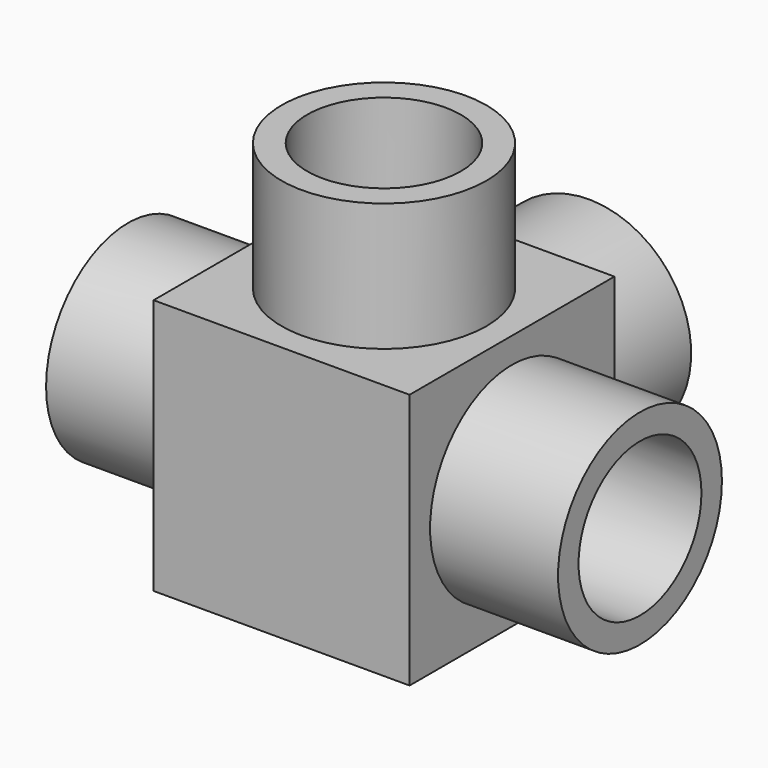
from build123d import *

# Parameters (mm, degrees)
F0_W     = 25.4
F0_H     = 25.4
F1_DEPTH = 25.4
F3_R     = 10.16
F3_R_2   = 7.62
F4_DEPTH = 12.7
F5_R     = 10.16
F5_R_2   = 7.62
F7_DEPTH = 12.7
F6_R     = 10.16
F6_R_2   = 7.62
F8_DEPTH = 12.7
F2_R     = 10.16
F2_R_2   = 7.62
F9_DEPTH = 12.7


with BuildPart() as f1:
    # F0 (on Top) → F1 (new body)
    with BuildSketch(Plane.XY):
        with Locations((-34.72263, 30.04187)):
            Rectangle(F0_W, F0_H)
    extrude(amount=F1_DEPTH)

    # F3 (on face) → F4 (join)
    with BuildSketch(Plane(origin=(0, 42.74187, 0), x_dir=(-1, 0, 0), z_dir=(0, 1, 0))):
        with Locations((34.72263, 12.7)):
            Circle(F3_R)
        with Locations((34.72263, 12.7)):
            Circle(F3_R_2, mode=Mode.SUBTRACT)
    extrude(amount=F4_DEPTH)

    # F5 (on face) → F7 (join)
    with BuildSketch(Plane.XY.offset(25.4)):
        with Locations((-34.72263, 30.04187)):
            Circle(F5_R)
        with Locations((-34.72263, 30.04187)):
            Circle(F5_R_2, mode=Mode.SUBTRACT)
    extrude(amount=F7_DEPTH)

    # F6 (on face) → F8 (join)
    with BuildSketch(Plane(origin=(-47.42263, 0, 0), x_dir=(0, -1, 0), z_dir=(-1, 0, 0))):
        with Locations((-30.04187, 12.7)):
            Circle(F6_R)
        with Locations((-30.04187, 12.7)):
            Circle(F6_R_2, mode=Mode.SUBTRACT)
    extrude(amount=F8_DEPTH)

    # F2 (on face) → F9 (join)
    with BuildSketch(Plane.YZ.offset(-22.02263)):
        with Locations((30.04187, 12.7)):
            Circle(F2_R)
        with Locations((30.04187, 12.7)):
            Circle(F2_R_2, mode=Mode.SUBTRACT)
    extrude(amount=F9_DEPTH)


solid = f1.part
